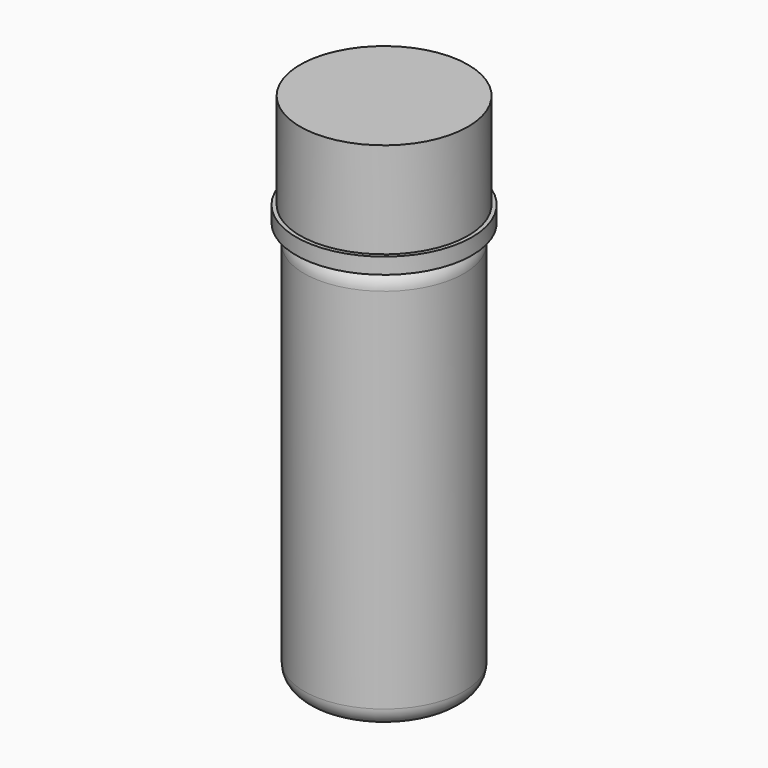
from build123d import *

# Parameters (mm, degrees)
F0_R     = 7.5
F1_DEPTH = 38
F3_R     = 1.75
F4_R     = 8.25
F5_DEPTH = 1.5
F6_R     = 7.875
F7_DEPTH = 9


with BuildPart() as f1:
    # F0 (on Top) → F1 (new body)
    with BuildSketch(Plane.XY):
        Circle(F0_R)
    extrude(amount=F1_DEPTH)

    # F3
    f3_edges = [f1.edges().sort_by_distance(p)[0] for p in [
        (-7.5, 0, 38),
        (-7.5, 0, 0),
    ]]
    fillet(f3_edges, radius=F3_R)

    # F4 (on face) → F5 (join)
    with BuildSketch(Plane.XY.offset(38)):
        Circle(F4_R)
    extrude(amount=F5_DEPTH)

    # F6 (on face) → F7 (join)
    with BuildSketch(Plane.XY.offset(39.5)):
        Circle(F6_R)
    extrude(amount=F7_DEPTH)


solid = f1.part
